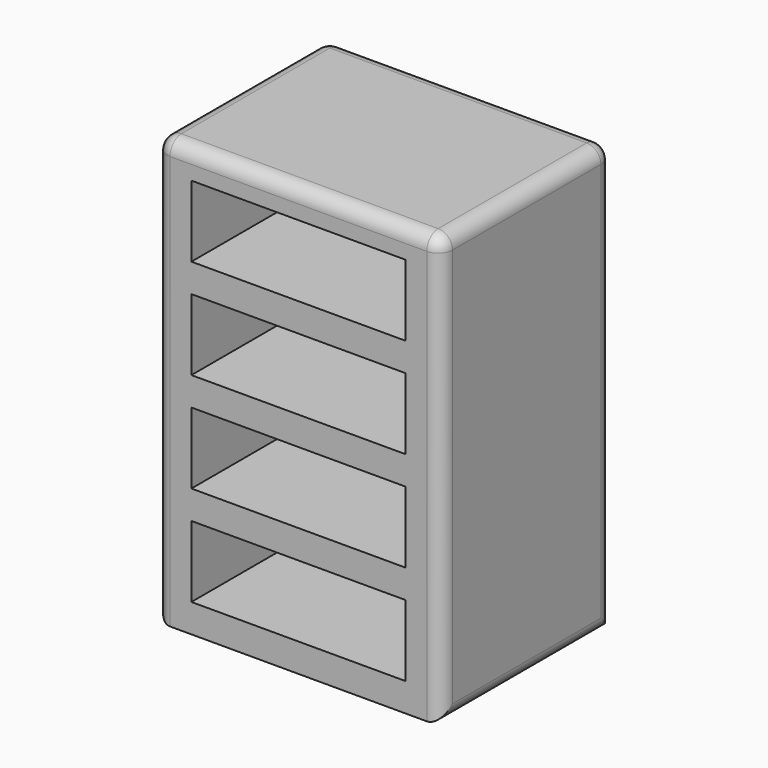
from build123d import *

# Parameters (mm, degrees)
F0_W     = 101.6
F0_H     = 76.2
F1_DEPTH = 152.4
F2_W     = 76.2
F2_H     = 25.4
F3_DEPTH = 50.8
F4_R     = 5.08


with BuildPart() as f1:
    # F0 (on Top) → F1 (new body)
    with BuildSketch(Plane.XY):
        with Locations((0.049565, -1.278337)):
            Rectangle(F0_W, F0_H)
    extrude(amount=F1_DEPTH)

    # F2 (on face) → F3 (cut)
    with BuildSketch(Plane.XZ.offset(39.378337)):
        with Locations((0.049565, 129.54)):
            Rectangle(F2_W, F2_H)
        with Locations((0.049565, 93.98)):
            Rectangle(F2_W, F2_H)
        with Locations((0.049565, 58.42)):
            Rectangle(F2_W, F2_H)
        with Locations((0.049565, 22.86)):
            Rectangle(F2_W, F2_H)
    extrude(amount=-F3_DEPTH, mode=Mode.SUBTRACT)

    # F4
    f4_edges = [f1.edges().sort_by_distance(p)[0] for p in [
        (50.849565, -1.278337, 152.4),
        (0.049565, 36.821663, 152.4),
        (-50.750435, -1.278337, 152.4),
        (0.049565, -39.378337, 152.4),
        (50.849565, -39.378337, 76.2),
        (50.849565, 36.821663, 76.2),
        (50.849565, -1.278337, 0),
        (-50.750435, 36.821663, 76.2),
        (-50.750435, -39.378337, 76.2),
        (-50.750435, -1.278337, 0),
    ]]
    fillet(f4_edges, radius=F4_R)


solid = f1.part
